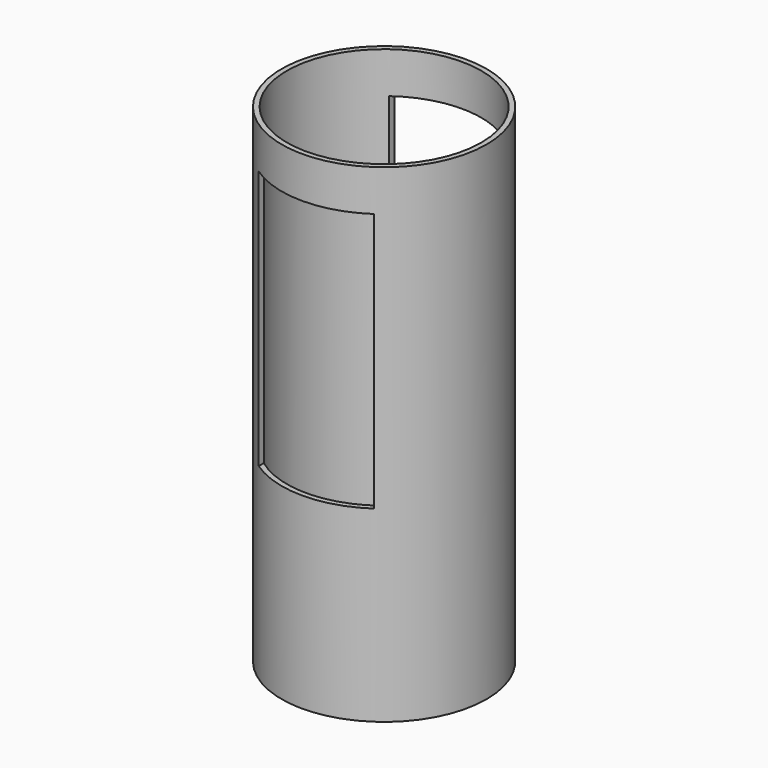
from build123d import *

# Parameters (mm, degrees)
F0_R     = 203.2
F0_R_2   = 192.8876
F1_DEPTH = 968.375
F2_W     = 228.6
F2_H     = 514.2992
F3_DEPTH = 215.9


with BuildPart() as f1:
    # F0 (on Top) → F1 (new body)
    with BuildSketch(Plane.XY):
        Circle(F0_R)
        Circle(F0_R_2, mode=Mode.SUBTRACT)
    extrude(amount=F1_DEPTH)

    # F2 (on Front) → F3 (cut, symmetric)
    with BuildSketch(Plane.XZ):
        with Locations((0, 629.2818784714)):
            Rectangle(F2_W, F2_H)
    extrude(amount=F3_DEPTH, both=True, mode=Mode.SUBTRACT)


solid = f1.part
